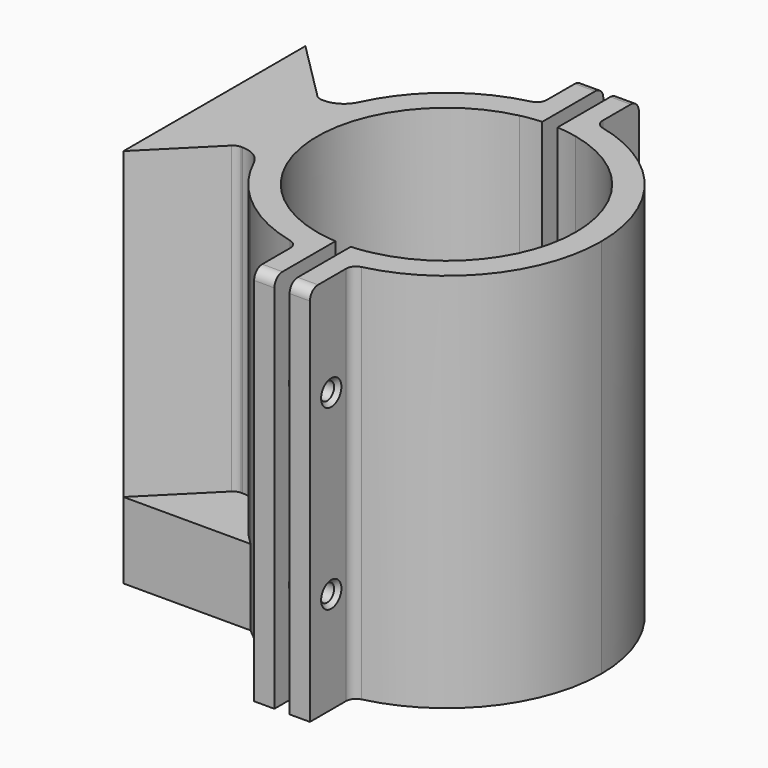
from build123d import *

# Parameters (mm, degrees)
F0_DEPTH = 75
F1_DEPTH = 15
F2_R     = 1.7
F3_DEPTH = 2
F4_DEPTH = 36.001
F5_SIZE  = 0.8
F6_R     = 2
F6_2_R   = 2
F7_R     = 5
F8_R     = 0.4
F9_R     = 2
F9_2_R   = 2


with BuildPart() as f0:
    # F10 (on Top) → F0 (new body)
    with BuildSketch(Plane.XY):
        with BuildLine():
            Line((-5.5490024388, -49.710269618), (-5.5490024388, -72.110269618))
            Line((-5.5490024388, -72.110269618), (-5.5490024388, -94.510269618))
            Line((-5.5490024388, -94.510269618), (6.8509975612, -82.110269618))
            Line((6.8509975612, -82.110269618), (11.3509975612, -82.110269618))
            ThreePointArc((11.3509975612, -82.110269618), (9.6650566297, -72.110269618), (11.3509975612, -62.110269618))
            Line((11.3509975612, -62.110269618), (6.8509975612, -62.110269618))
            Line((6.8509975612, -62.110269618), (-5.5490024388, -49.710269618))
        make_face()
        with BuildLine():
            Line((11.3509975612, -72.110269618), (11.3509975612, -62.110269618))
            ThreePointArc((11.3509975612, -62.110269618), (9.6650566297, -72.110269618), (11.3509975612, -82.110269618))
            Line((11.3509975612, -82.110269618), (11.3509975612, -72.110269618))
        make_face()
        with BuildLine():
            ThreePointArc((33.6936689868, -42.3047140625), (26.083805269, -45.0553558293), (19.4650566297, -49.710269618))
            ThreePointArc((19.4650566297, -49.710269618), (14.643487098, -55.4099855294), (11.3509975612, -62.110269618))
            Line((11.3509975612, -62.110269618), (11.3509975612, -72.110269618))
            Line((11.3509975612, -72.110269618), (11.3509975612, -82.110269618))
            ThreePointArc((11.3509975612, -82.110269618), (14.643487098, -88.8105537067), (19.4650566297, -94.510269618))
            ThreePointArc((19.4650566297, -94.510269618), (26.083805269, -99.1651834068), (33.6936689868, -101.9158251736))
            ThreePointArc((33.6936689868, -101.9158251736), (34.1734879337, -101.6398045157), (34.6650566297, -101.3852974577))
            Line((34.6650566297, -101.3852974577), (34.6650566297, -97.010068814))
            ThreePointArc((34.6650566297, -97.010068814), (14.6650566297, -72.110269618), (34.6650566297, -47.2104704221))
            Line((34.6650566297, -47.2104704221), (34.6650566297, -42.8352417784))
            ThreePointArc((34.6650566297, -42.8352417784), (34.1734879337, -42.5807347204), (33.6936689868, -42.3047140625))
        make_face()
        with BuildLine():
            Line((34.6650566297, -31.610269618), (34.6650566297, -42.110269618))
            ThreePointArc((34.6650566297, -42.110269618), (36.657405899, -41.8126395729), (38.6650566297, -41.6471771946))
            Line((38.6650566297, -41.6471771946), (38.6650566297, -31.610269618))
            Line((38.6650566297, -31.610269618), (34.6650566297, -31.610269618))
        make_face()
        with BuildLine():
            ThreePointArc((38.6650566297, -41.6471771946), (36.657405899, -41.8126395729), (34.6650566297, -42.110269618))
            Line((34.6650566297, -42.110269618), (34.6650566297, -42.8352417784))
            ThreePointArc((34.6650566297, -42.8352417784), (36.6152848902, -43.5956407261), (38.6650566297, -44.019943264))
            Line((38.6650566297, -44.019943264), (38.6650566297, -41.6471771946))
        make_face()
        with BuildLine():
            ThreePointArc((34.6650566297, -42.110269618), (34.1785732976, -42.203547676), (33.6936689868, -42.3047140625))
            ThreePointArc((33.6936689868, -42.3047140625), (34.1734879337, -42.5807347204), (34.6650566297, -42.8352417784))
            Line((34.6650566297, -42.8352417784), (34.6650566297, -42.110269618))
        make_face()
        with BuildLine():
            ThreePointArc((34.6650566297, -101.3852974577), (34.1734879337, -101.6398045157), (33.6936689868, -101.9158251736))
            ThreePointArc((33.6936689868, -101.9158251736), (34.1785732976, -102.01699156), (34.6650566297, -102.110269618))
            Line((34.6650566297, -102.110269618), (34.6650566297, -101.3852974577))
        make_face()
        with BuildLine():
            Line((34.6650566297, -101.3852974577), (34.6650566297, -102.110269618))
            ThreePointArc((34.6650566297, -102.110269618), (36.657405899, -102.4078996632), (38.6650566297, -102.5733620415))
            Line((38.6650566297, -102.5733620415), (38.6650566297, -100.200595972))
            ThreePointArc((38.6650566297, -100.200595972), (36.6152848902, -100.62489851), (34.6650566297, -101.3852974577))
        make_face()
        with BuildLine():
            ThreePointArc((38.6650566297, -102.5733620415), (36.657405899, -102.4078996632), (34.6650566297, -102.110269618))
            Line((34.6650566297, -102.110269618), (34.6650566297, -112.610269618))
            Line((34.6650566297, -112.610269618), (38.6650566297, -112.610269618))
            Line((38.6650566297, -112.610269618), (38.6650566297, -102.5733620415))
        make_face()
        with BuildLine():
            ThreePointArc((38.6650566297, -44.019943264), (36.6152848902, -43.5956407261), (34.6650566297, -42.8352417784))
            Line((34.6650566297, -42.8352417784), (34.6650566297, -47.2104704221))
            ThreePointArc((34.6650566297, -47.2104704221), (36.6540316383, -46.8531378824), (38.6650566297, -46.6544254953))
            Line((38.6650566297, -46.6544254953), (38.6650566297, -44.019943264))
        make_face()
        with BuildLine():
            Line((34.6650566297, -97.010068814), (34.6650566297, -101.3852974577))
            ThreePointArc((34.6650566297, -101.3852974577), (36.6152848902, -100.62489851), (38.6650566297, -100.200595972))
            Line((38.6650566297, -100.200595972), (38.6650566297, -97.5661137408))
            ThreePointArc((38.6650566297, -97.5661137408), (36.6540316383, -97.3674013536), (34.6650566297, -97.010068814))
        make_face()
    extrude(amount=F0_DEPTH)

    # F10 (on Top) → F1 (join)
    with BuildSketch(Plane.XY):
        with BuildLine():
            Line((6.8509975612, -82.110269618), (-5.5490024388, -94.510269618))
            Line((-5.5490024388, -94.510269618), (19.4650566297, -94.510269618))
            ThreePointArc((19.4650566297, -94.510269618), (14.643487098, -88.8105537067), (11.3509975612, -82.110269618))
            Line((11.3509975612, -82.110269618), (6.8509975612, -82.110269618))
        make_face()
        with BuildLine():
            Line((19.4650566297, -49.710269618), (-5.5490024388, -49.710269618))
            Line((-5.5490024388, -49.710269618), (6.8509975612, -62.110269618))
            Line((6.8509975612, -62.110269618), (11.3509975612, -62.110269618))
            ThreePointArc((11.3509975612, -62.110269618), (14.643487098, -55.4099855294), (19.4650566297, -49.710269618))
        make_face()
    extrude(amount=F1_DEPTH)

    # F2 (on face) → F3 (cut)
    with BuildSketch(Plane(origin=(34.6650566297, 0, 0), x_dir=(0, -1, 0), z_dir=(-1, 0, 0))):
        Polygon((104.360269618, 56.7320508076), (104.360269618, 53.2679491924), (107.360269618, 51.5358983849), (110.360269618, 53.2679491924), (110.360269618, 56.7320508076), (107.360269618, 58.4641016151), align=None)
        with Locations((107.360269618, 55)):
            Circle(F2_R, mode=Mode.SUBTRACT)
        Polygon((104.360269618, 21.7320508076), (104.360269618, 18.2679491924), (107.360269618, 16.5358983849), (110.360269618, 18.2679491924), (110.360269618, 21.7320508076), (107.360269618, 23.4641016151), align=None)
        with Locations((107.360269618, 20)):
            Circle(F2_R, mode=Mode.SUBTRACT)
        Polygon((33.860269618, 56.7320508076), (33.860269618, 53.2679491924), (36.860269618, 51.5358983849), (39.860269618, 53.2679491924), (39.860269618, 56.7320508076), (36.860269618, 58.4641016151), align=None)
        with Locations((36.860269618, 55)):
            Circle(F2_R, mode=Mode.SUBTRACT)
        Polygon((33.860269618, 21.7320508076), (33.860269618, 18.2679491924), (36.860269618, 16.5358983849), (39.860269618, 18.2679491924), (39.860269618, 21.7320508076), (36.860269618, 23.4641016151), align=None)
        with Locations((36.860269618, 20)):
            Circle(F2_R, mode=Mode.SUBTRACT)
    extrude(amount=-F3_DEPTH, mode=Mode.SUBTRACT)


with BuildPart() as f0b:
    # F10 (on Top) → F0, piece 2 (new body)
    with BuildSketch(Plane.XY):
        with BuildLine():
            Line((41.6650566297, -31.610269618), (41.6650566297, -41.6471771946))
            ThreePointArc((41.6650566297, -41.6471771946), (43.6727073603, -41.8126395729), (45.6650566297, -42.110269618))
            Line((45.6650566297, -42.110269618), (45.6650566297, -31.610269618))
            Line((45.6650566297, -31.610269618), (41.6650566297, -31.610269618))
        make_face()
        with BuildLine():
            ThreePointArc((45.6650566297, -42.110269618), (43.6727073603, -41.8126395729), (41.6650566297, -41.6471771946))
            Line((41.6650566297, -41.6471771946), (41.6650566297, -44.019943264))
            ThreePointArc((41.6650566297, -44.019943264), (43.7148283692, -43.5956407261), (45.6650566297, -42.8352417784))
            Line((45.6650566297, -42.8352417784), (45.6650566297, -42.110269618))
        make_face()
        with BuildLine():
            ThreePointArc((45.6650566297, -42.8352417784), (46.1566253256, -42.5807347204), (46.6364442726, -42.3047140625))
            ThreePointArc((46.6364442726, -42.3047140625), (46.1515399617, -42.203547676), (45.6650566297, -42.110269618))
            Line((45.6650566297, -42.110269618), (45.6650566297, -42.8352417784))
        make_face()
        with BuildLine():
            ThreePointArc((70.6650566297, -72.110269618), (63.9098173476, -52.9677426572), (46.6364442726, -42.3047140625))
            ThreePointArc((46.6364442726, -42.3047140625), (46.1566253256, -42.5807347204), (45.6650566297, -42.8352417784))
            Line((45.6650566297, -42.8352417784), (45.6650566297, -47.2104704221))
            ThreePointArc((45.6650566297, -47.2104704221), (60.0459519817, -56.1415501954), (65.6650566297, -72.110269618))
            ThreePointArc((65.6650566297, -72.110269618), (60.0459519817, -88.0789890407), (45.6650566297, -97.010068814))
            Line((45.6650566297, -97.010068814), (45.6650566297, -101.3852974577))
            ThreePointArc((45.6650566297, -101.3852974577), (46.1566253256, -101.6398045157), (46.6364442726, -101.9158251736))
            ThreePointArc((46.6364442726, -101.9158251736), (63.9098173476, -91.2527965789), (70.6650566297, -72.110269618))
        make_face()
        with BuildLine():
            ThreePointArc((45.6650566297, -102.110269618), (46.1515399617, -102.01699156), (46.6364442726, -101.9158251736))
            ThreePointArc((46.6364442726, -101.9158251736), (46.1566253256, -101.6398045157), (45.6650566297, -101.3852974577))
            Line((45.6650566297, -101.3852974577), (45.6650566297, -102.110269618))
        make_face()
        with BuildLine():
            Line((41.6650566297, -100.200595972), (41.6650566297, -102.5733620415))
            ThreePointArc((41.6650566297, -102.5733620415), (43.6727073603, -102.4078996632), (45.6650566297, -102.110269618))
            Line((45.6650566297, -102.110269618), (45.6650566297, -101.3852974577))
            ThreePointArc((45.6650566297, -101.3852974577), (43.7148283692, -100.62489851), (41.6650566297, -100.200595972))
        make_face()
        with BuildLine():
            ThreePointArc((45.6650566297, -102.110269618), (43.6727073603, -102.4078996632), (41.6650566297, -102.5733620415))
            Line((41.6650566297, -102.5733620415), (41.6650566297, -112.610269618))
            Line((41.6650566297, -112.610269618), (45.6650566297, -112.610269618))
            Line((45.6650566297, -112.610269618), (45.6650566297, -102.110269618))
        make_face()
        with BuildLine():
            Line((45.6650566297, -47.2104704221), (45.6650566297, -42.8352417784))
            ThreePointArc((45.6650566297, -42.8352417784), (43.7148283692, -43.5956407261), (41.6650566297, -44.019943264))
            Line((41.6650566297, -44.019943264), (41.6650566297, -46.6544254953))
            ThreePointArc((41.6650566297, -46.6544254953), (43.6760816211, -46.8531378824), (45.6650566297, -47.2104704221))
        make_face()
        with BuildLine():
            Line((41.6650566297, -97.5661137408), (41.6650566297, -100.200595972))
            ThreePointArc((41.6650566297, -100.200595972), (43.7148283692, -100.62489851), (45.6650566297, -101.3852974577))
            Line((45.6650566297, -101.3852974577), (45.6650566297, -97.010068814))
            ThreePointArc((45.6650566297, -97.010068814), (43.6760816211, -97.3674013536), (41.6650566297, -97.5661137408))
        make_face()
    extrude(amount=F0_DEPTH)


with BuildPart() as f4_tool:
    # F4 (cut, through all): faces of the model
    f4_faces = [f0.part.faces().sort_by_distance(p)[0] for p in [
        (34.6650566297, -36.860269618, 55),
        (34.6650566297, -107.360269618, 55),
        (34.6650566297, -107.360269618, 20),
        (34.6650566297, -36.860269618, 20),
    ]]
    extrude(f4_faces, amount=-F4_DEPTH)


with BuildPart() as f0_1:
    add(f0.part)

    # F4: cut by f4_tool
    add(f4_tool.part, mode=Mode.SUBTRACT)

    # F6#2
    f6_2_edges = [f0_1.edges().sort_by_distance(p)[0] for p in [
        (34.665057, -42.11027, 37.5),
        (34.665057, -102.11027, 37.5),
        (6.850998, -82.11027, 45),
        (6.850998, -62.11027, 45),
    ]]
    fillet(f6_2_edges, radius=F6_2_R)

    # F7
    f7_edges = [f0_1.edges().sort_by_distance(p)[0] for p in [
        (11.350998, -62.11027, 45),
        (11.350998, -82.11027, 45),
    ]]
    fillet(f7_edges, radius=F7_R)

    # F8
    f8_edges = [f0_1.edges().sort_by_distance(p)[0] for p in [
        (35.665057, -33.86027, 53.267949),
        (35.665057, -36.86027, 51.535898),
        (35.665057, -36.86027, 58.464102),
        (35.665057, -39.86027, 56.732051),
        (35.665057, -39.86027, 53.267949),
        (35.665057, -33.86027, 56.732051),
        (35.665057, -104.36027, 56.732051),
        (35.665057, -107.36027, 58.464102),
        (35.665057, -104.36027, 53.267949),
        (35.665057, -107.36027, 51.535898),
        (35.665057, -110.36027, 53.267949),
        (35.665057, -110.36027, 56.732051),
        (35.665057, -104.36027, 21.732051),
        (35.665057, -104.36027, 18.267949),
        (35.665057, -107.36027, 23.464102),
        (35.665057, -110.36027, 21.732051),
        (35.665057, -110.36027, 18.267949),
        (35.665057, -107.36027, 16.535898),
        (35.665057, -36.86027, 16.535898),
        (35.665057, -33.86027, 18.267949),
        (35.665057, -33.86027, 21.732051),
        (35.665057, -36.86027, 23.464102),
        (35.665057, -39.86027, 18.267949),
        (35.665057, -39.86027, 21.732051),
    ]]
    fillet(f8_edges, radius=F8_R)

    # F9#2
    f9_2_edges = [f0_1.edges().sort_by_distance(p)[0] for p in [
        (36.665057, -31.61027, 75),
        (36.665057, -112.61027, 75),
    ]]
    fillet(f9_2_edges, radius=F9_2_R)


with BuildPart() as f0b_1:
    add(f0b.part)

    # F4: cut by f4_tool
    add(f4_tool.part, mode=Mode.SUBTRACT)

    # F5
    f5_edges = [f0b_1.edges().sort_by_distance(p)[0] for p in [
        (45.665057, -105.66027, 20),
        (45.665057, -105.66027, 55),
        (45.665057, -35.16027, 55),
        (45.665057, -35.16027, 20),
    ]]
    chamfer(f5_edges, length=F5_SIZE)

    # F6
    f6_edges = [f0b_1.edges().sort_by_distance(p)[0] for p in [
        (45.665057, -102.11027, 37.5),
        (45.665057, -42.11027, 37.5),
    ]]
    fillet(f6_edges, radius=F6_R)

    # F9
    f9_edges = [f0b_1.edges().sort_by_distance(p)[0] for p in [
        (43.665057, -31.61027, 75),
        (43.665057, -112.61027, 75),
    ]]
    fillet(f9_edges, radius=F9_R)


solid = Compound([f0_1.part, f0b_1.part])
